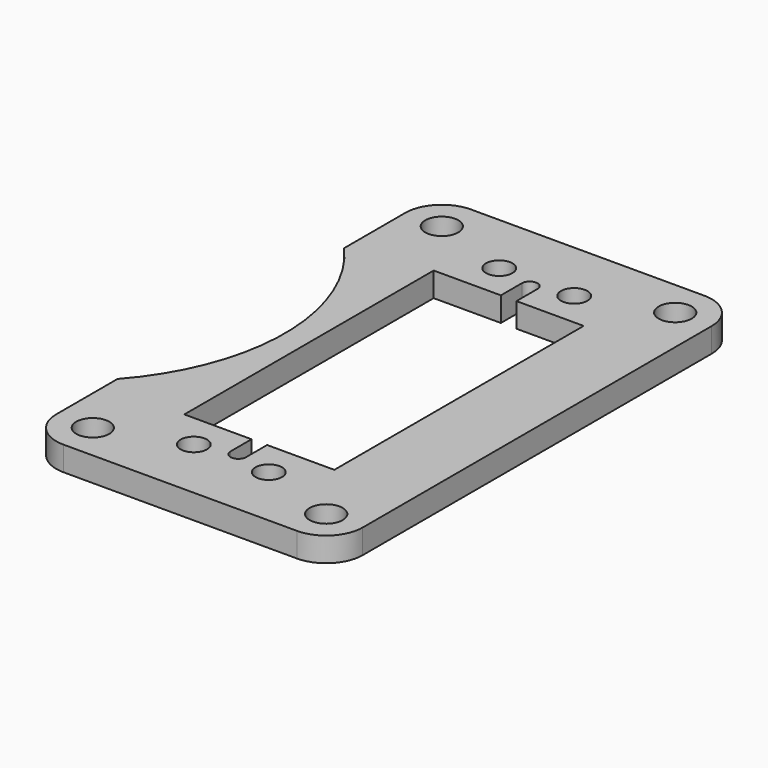
from build123d import *

# Parameters (mm, degrees)
F0_W     = 39.961066
F0_H     = 66.41153
F0_R     = 2.15265
F0_R_2   = 1.7272
F1_DEPTH = 3.175
F2_R     = 4.7625
F4_DEPTH = 3.175


with BuildPart() as f1:
    # F0 (on Top) → F1 (new body)
    with BuildSketch(Plane.XY):
        Rectangle(F0_W, F0_H)
        with Locations((-15.218033, -28.443265)):
            Circle(F0_R, mode=Mode.SUBTRACT)
        with Locations((-4.8895, -24.892)):
            Circle(F0_R_2, mode=Mode.SUBTRACT)
        with Locations((4.8895, -24.892)):
            Circle(F0_R_2, mode=Mode.SUBTRACT)
        with Locations((15.218033, -28.443265)):
            Circle(F0_R, mode=Mode.SUBTRACT)
        with Locations((-15.218033, 28.443265)):
            Circle(F0_R, mode=Mode.SUBTRACT)
        with Locations((-4.8895, 24.892)):
            Circle(F0_R_2, mode=Mode.SUBTRACT)
        with BuildLine():
            Line((-1.016, -20.32), (-9.779, -20.32))
            Line((-9.779, -20.32), (-9.779, 20.32))
            Line((-9.779, 20.32), (-1.016, 20.32))
            Line((-1.016, 20.32), (-1.016, 23.749))
            ThreePointArc((-1.016, 23.749), (0, 24.765), (1.016, 23.749))
            Line((1.016, 23.749), (1.016, 20.32))
            Line((1.016, 20.32), (9.779, 20.32))
            Line((9.779, 20.32), (9.779, -20.32))
            Line((9.779, -20.32), (1.016, -20.32))
            Line((1.016, -20.32), (1.016, -23.749))
            ThreePointArc((1.016, -23.749), (0, -24.765), (-1.016, -23.749))
            Line((-1.016, -23.749), (-1.016, -20.32))
        make_face(mode=Mode.SUBTRACT)
        with Locations((4.8895, 24.892)):
            Circle(F0_R_2, mode=Mode.SUBTRACT)
        with Locations((15.218033, 28.443265)):
            Circle(F0_R, mode=Mode.SUBTRACT)
    extrude(amount=F1_DEPTH)

    # F2
    f2_edges = [f1.edges().sort_by_distance(p)[0] for p in [
        (19.980533, 33.205765, 1.5875),
        (19.980533, -33.205765, 1.5875),
        (-19.980533, 33.205765, 1.5875),
        (-19.980533, -33.205765, 1.5875),
    ]]
    fillet(f2_edges, radius=F2_R)

    # F3 (on face) → F4 (cut, through all)
    with BuildSketch(Plane(origin=(0, 0, 0), x_dir=(1, 0, 0), z_dir=(0, 0, -1))):
        with BuildLine():
            Line((-19.980533, 18.467257), (-19.980533, -18.467257))
            ThreePointArc((-19.980533, -18.467257), (-12.954, 0), (-19.980533, 18.467257))
        make_face()
    extrude(amount=-F4_DEPTH, mode=Mode.SUBTRACT)


solid = f1.part
